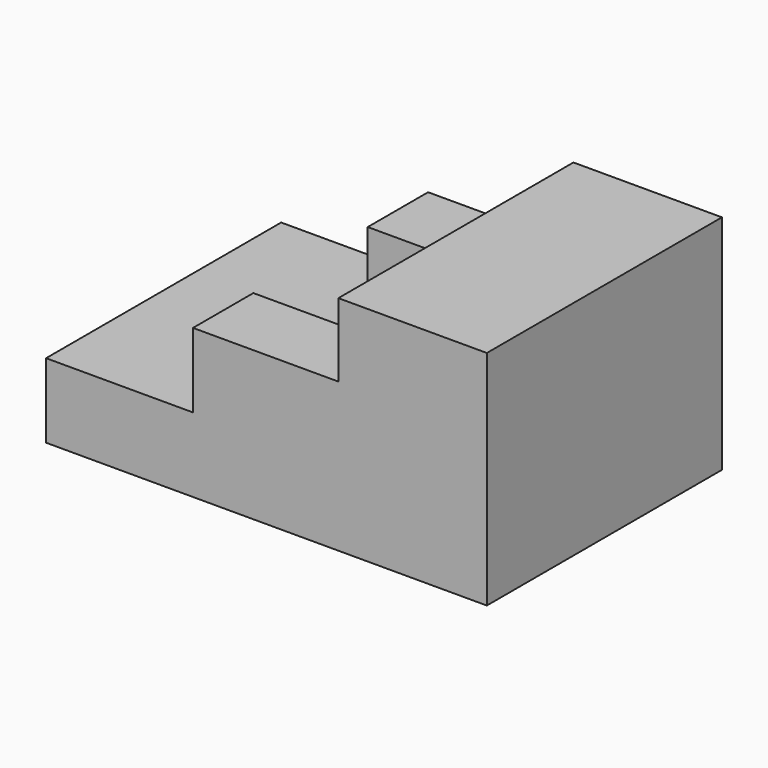
from build123d import *

# Parameters (mm, degrees)
F0_W     = 57.15
F0_H     = 38.1
F1_DEPTH = 28.829
F2_W     = 18.8468
F2_H     = 9.525
F3_DEPTH = 38.101
F4_W     = 18.8468
F4_H     = 18.542
F5_DEPTH = 9.652


with BuildPart() as f1:
    # F0 (on Top) → F1 (new body)
    with BuildSketch(Plane.XY):
        with Locations((-28.575, -0.834305)):
            Rectangle(F0_W, F0_H)
    extrude(amount=F1_DEPTH)

    # F2 (on face) → F3 (cut, through all)
    with BuildSketch(Plane.XZ.offset(19.884305)):
        Polygon((-57.15, 28.829), (-57.15, 9.652), (-38.1, 9.652), (-38.1, 19.2405), (-38.1, 19.304), (-38.1, 28.829), align=None)
        with Locations((-28.6766, 24.0665)):
            Rectangle(F2_W, F2_H)
    extrude(amount=-F3_DEPTH, mode=Mode.SUBTRACT)

    # F4 (on face) → F5 (cut)
    with BuildSketch(Plane.XY.offset(19.304)):
        with Locations((-28.6766, -0.834305)):
            Rectangle(F4_W, F4_H)
    extrude(amount=-F5_DEPTH, mode=Mode.SUBTRACT)


solid = f1.part
